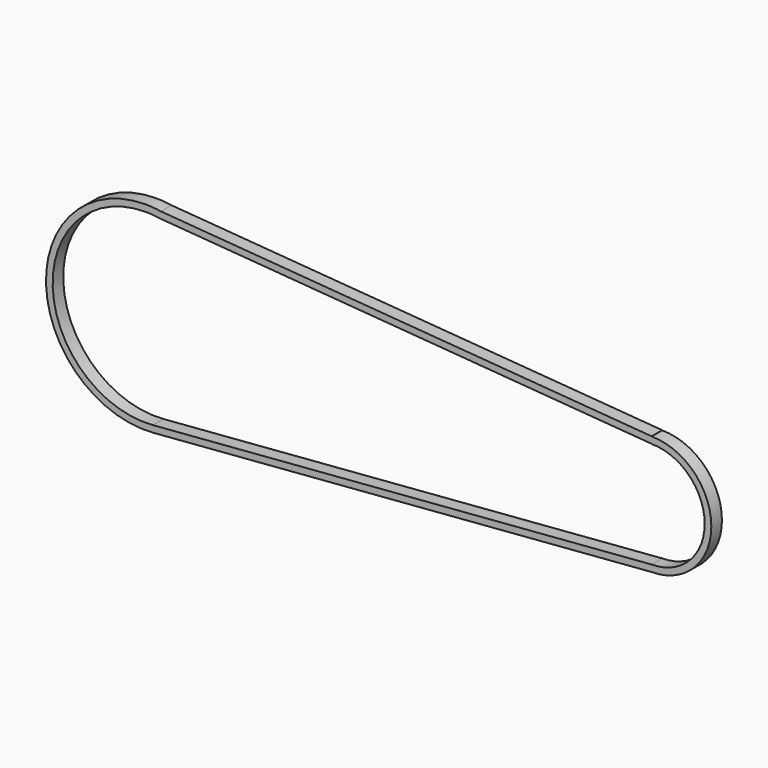
from build123d import *

# Parameters (mm, degrees)
F1_DEPTH = 5


with BuildPart() as f1:
    # F0 (on Front) → F1 (new body, symmetric)
    with BuildSketch(Plane.XZ):
        with BuildLine():
            Line((0, 75), (11.6628740197, 74.0876330409))
            ThreePointArc((11.6628740197, 74.0876330409), (5.8492530264, 74.7715603624), (0, 75))
        make_face()
        with BuildLine():
            Line((381.7354142666, 45.1374825353), (11.6628740197, 74.0876330409))
            Line((11.6628740197, 74.0876330409), (0, 75))
            ThreePointArc((0, 75), (-74.9414408269, -2.9631818699), (5.9217365004, -74.7658547522))
            Line((5.9217365004, -74.7658547522), (381.7354142666, -45))
            ThreePointArc((381.7354142666, -45), (426.7354142666, 0), (381.7354142666, 45))
            Line((381.7354142666, 45), (381.7354142666, 45.1374825353))
        make_face()
        with BuildLine():
            ThreePointArc((5.5240677228, -69.7816929846), (-69.9454019537, -2.7641898524), (0, 70))
            ThreePointArc((0, 70), (5.4620559663, 69.7865742433), (10.8908049775, 69.1475984178))
            Line((10.8908049775, 69.1475984178), (381.7354142666, 40.1223305537))
            Line((381.7354142666, 40.1223305537), (381.7354142666, 40))
            ThreePointArc((381.7354142666, 40), (421.7354142666, 0), (381.7354142666, -40))
            Line((381.7354142666, -40), (5.5240677228, -69.7816929846))
        make_face(mode=Mode.SUBTRACT)
    extrude(amount=F1_DEPTH, both=True)


solid = f1.part
